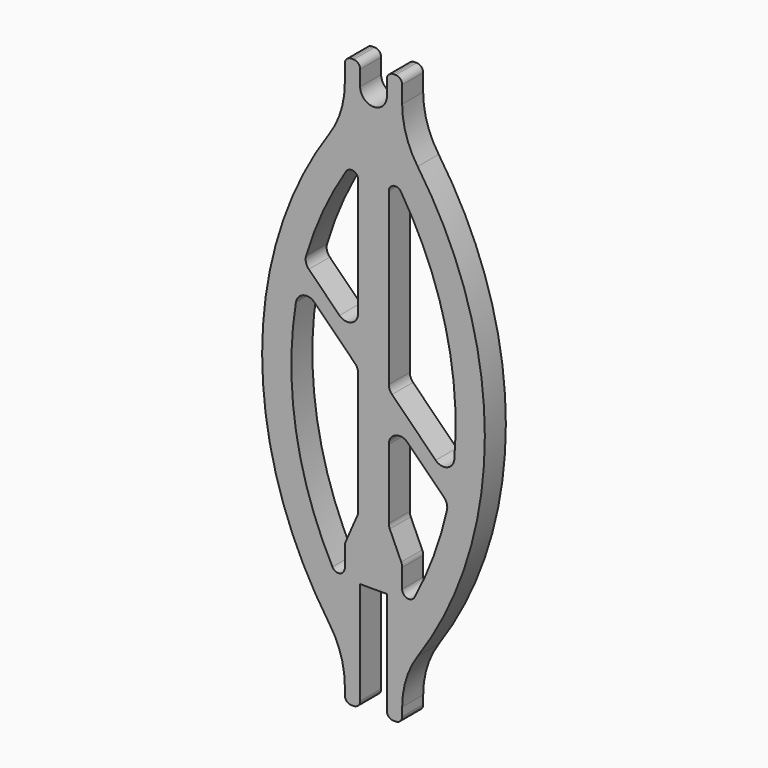
from build123d import *

# Parameters (mm, degrees)
F1_DEPTH = 7.62


with BuildPart() as f1:
    # F0 (on Front) → F1 (new body)
    with BuildSketch(Plane.XZ):
        with BuildLine():
            Line((-3.8735, -29.845), (-3.8735, 0))
            Line((-3.8735, 0), (3.8735, 0))
            Line((3.8735, 0), (3.8735, -29.845))
            ThreePointArc((3.8735, -29.845), (4.431462, -31.192038), (5.7785, -31.75))
            Line((5.7785, -31.75), (6.4135, -31.75))
            ThreePointArc((6.4135, -31.75), (7.760538, -31.192038), (8.3185, -29.845))
            Line((8.3185, -29.845), (8.3185, -27.419537))
            ThreePointArc((8.3185, -27.419537), (9.468431, -19.863469), (12.814103, -12.991572))
            ThreePointArc((12.814103, -12.991572), (32.295171, 49.53), (12.814103, 112.051572))
            ThreePointArc((12.814103, 112.051572), (9.468431, 118.923469), (8.3185, 126.479537))
            Line((8.3185, 126.479537), (8.3185, 131.445))
            ThreePointArc((8.3185, 131.445), (7.760538, 132.792038), (6.4135, 133.35))
            Line((6.4135, 133.35), (5.7785, 133.35))
            ThreePointArc((5.7785, 133.35), (4.431462, 132.792038), (3.8735, 131.445))
            Line((3.8735, 131.445), (3.8735, 127))
            ThreePointArc((3.8735, 127), (0, 123.1265), (-3.8735, 127))
            Line((-3.8735, 127), (-3.8735, 131.445))
            ThreePointArc((-3.8735, 131.445), (-4.431462, 132.792038), (-5.7785, 133.35))
            Line((-5.7785, 133.35), (-6.4135, 133.35))
            ThreePointArc((-6.4135, 133.35), (-7.760538, 132.792038), (-8.3185, 131.445))
            Line((-8.3185, 131.445), (-8.3185, 126.479537))
            ThreePointArc((-8.3185, 126.479537), (-9.468431, 118.923469), (-12.814103, 112.051572))
            ThreePointArc((-12.814103, 112.051572), (-32.295171, 49.53), (-12.814103, -12.991572))
            ThreePointArc((-12.814103, -12.991572), (-9.468431, -19.863469), (-8.3185, -27.419537))
            Line((-8.3185, -27.419537), (-8.3185, -29.845))
            ThreePointArc((-8.3185, -29.845), (-7.760538, -31.192038), (-6.4135, -31.75))
            Line((-6.4135, -31.75), (-5.7785, -31.75))
            ThreePointArc((-5.7785, -31.75), (-4.431462, -31.192038), (-3.8735, -29.845))
        make_face()
        with BuildLine():
            ThreePointArc((-4.445, 18.441657), (-4.511776, 17.793916), (-4.709295, 17.173421))
            Line((-4.709295, 17.173421), (-8.054205, 9.496579))
            ThreePointArc((-8.054205, 9.496579), (-8.251724, 8.876084), (-8.3185, 8.228343))
            Line((-8.3185, 8.228343), (-8.3185, 2.670058))
            ThreePointArc((-8.3185, 2.670058), (-9.762051, 0.821791), (-11.904946, 1.774645))
            ThreePointArc((-11.904946, 1.774645), (-22.467997, 32.962926), (-22.501769, 65.891421))
            ThreePointArc((-22.501769, 65.891421), (-20.342296, 68.40201), (-17.123144, 67.625191))
            Line((-17.123144, 67.625191), (-5.374936, 55.876982))
            ThreePointArc((-5.374936, 55.876982), (-4.686682, 54.846938), (-4.445, 53.631918))
            Line((-4.445, 53.631918), (-4.445, 18.441657))
        make_face(mode=Mode.SUBTRACT)
        with BuildLine():
            ThreePointArc((8.3185, 8.20836), (8.247765, 8.874814), (8.038713, 9.511573))
            Line((8.038713, 9.511573), (4.724787, 16.873781))
            ThreePointArc((4.724787, 16.873781), (4.515735, 17.51054), (4.445, 18.176994))
            Line((4.445, 18.176994), (4.445, 38.391918))
            ThreePointArc((4.445, 38.391918), (6.40498, 41.325236), (9.865064, 40.636982))
            Line((9.865064, 40.636982), (20.466927, 30.035119))
            ThreePointArc((20.466927, 30.035119), (21.272034, 28.671577), (21.318445, 27.088767))
            ThreePointArc((21.318445, 27.088767), (17.456582, 14.11752), (11.904946, 1.774645))
            ThreePointArc((11.904946, 1.774645), (9.762051, 0.821791), (8.3185, 2.670058))
            Line((8.3185, 2.670058), (8.3185, 8.20836))
        make_face(mode=Mode.SUBTRACT)
        with BuildLine():
            ThreePointArc((-7.95743, 104.055176), (-5.817614, 104.861924), (-4.445, 103.032829))
            Line((-4.445, 103.032829), (-4.445, 68.898354))
            ThreePointArc((-4.445, 68.898354), (-6.40498, 65.965036), (-9.865064, 66.65329))
            Line((-9.865064, 66.65329), (-18.754319, 75.542545))
            ThreePointArc((-18.754319, 75.542545), (-19.587816, 77.011022), (-19.550592, 78.699145))
            ThreePointArc((-19.550592, 78.699145), (-14.627905, 91.776718), (-7.95743, 104.055176))
        make_face(mode=Mode.SUBTRACT)
        with BuildLine():
            ThreePointArc((4.445, 103.032829), (5.817614, 104.861924), (7.95743, 104.055176))
            ThreePointArc((7.95743, 104.055176), (20.919781, 73.664161), (23.445213, 40.720899))
            ThreePointArc((23.445213, 40.720899), (21.368761, 38.012906), (18.037106, 38.75112))
            Line((18.037106, 38.75112), (5.374936, 51.41329))
            ThreePointArc((5.374936, 51.41329), (4.686682, 52.443334), (4.445, 53.658354))
            Line((4.445, 53.658354), (4.445, 103.032829))
        make_face(mode=Mode.SUBTRACT)
    extrude(amount=F1_DEPTH)


solid = f1.part
